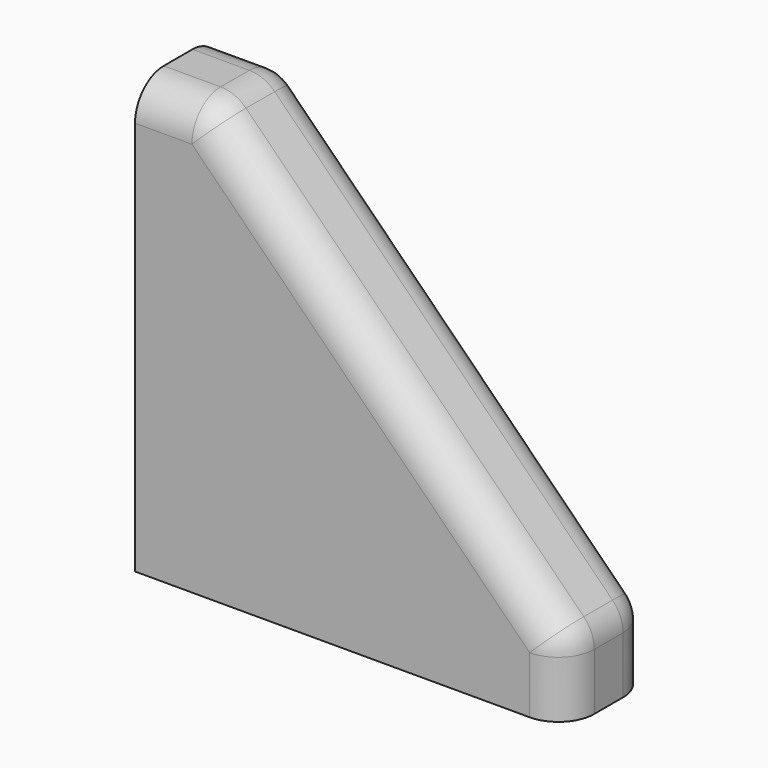
from build123d import *

# Parameters (mm, degrees)
F1_DEPTH = 19.05
F2_R     = 6.35
F3_R     = 6.35


with BuildPart() as f1:
    # F0 (on Front) → F1 (new body)
    with BuildSketch(Plane.XZ):
        Polygon((0, 76.2), (0, 0), (76.2, 0), (76.2, 12.7), (12.7, 76.2), align=None)
    extrude(amount=F1_DEPTH)

    # F2
    f2_edges = [f1.edges().sort_by_distance(p)[0] for p in [
        (12.7, -9.525, 76.2),
        (76.2, -9.525, 12.7),
    ]]
    fillet(f2_edges, radius=F2_R)

    # F3
    f3_edges = [f1.edges().sort_by_distance(p)[0] for p in [
        (44.45, -19.05, 44.45),
        (44.45, 0, 44.45),
    ]]
    fillet(f3_edges, radius=F3_R)


solid = f1.part
